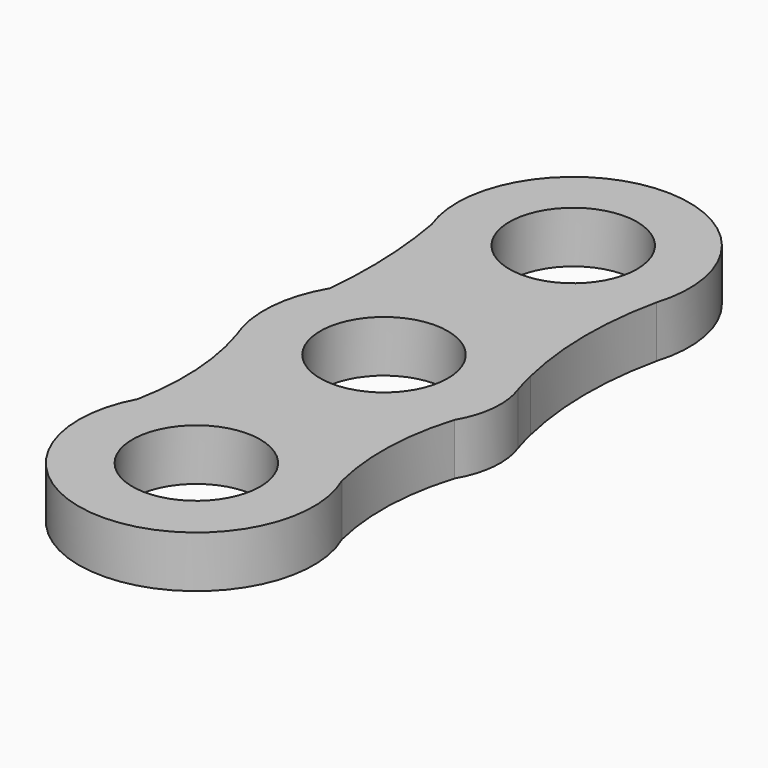
from build123d import *

# Parameters (mm, degrees)
F0_R     = 10.9982
F1_DEPTH = 8.89


with BuildPart() as f1:
    # F0 (on Top) → F1 (new body)
    with BuildSketch(Plane.XY):
        with BuildLine():
            ThreePointArc((19.288098, 7.425078), (17.651078, 21.09933), (19.097709, 34.795032))
            ThreePointArc((19.097709, 34.795032), (-0.573826, 60.707135), (-18.726343, 33.709126))
            ThreePointArc((-18.726343, 33.709126), (-17.437379, 22.177876), (-17.755109, 10.579159))
            ThreePointArc((-17.755109, 10.579159), (-20.610678, 1.53703), (-19.12786, -7.828632))
            ThreePointArc((-19.12786, -7.828632), (-16.996426, -19.210494), (-17.793023, -30.762777))
            ThreePointArc((-17.793023, -30.762777), (-0.824989, -60.620342), (18.519117, -32.244403))
            ThreePointArc((18.519117, -32.244403), (17.300372, -20.507816), (19.257121, -8.871496))
            ThreePointArc((19.257121, -8.871496), (21.201005, -2.880178), (20.391904, 3.366415))
            ThreePointArc((20.391904, 3.366415), (19.805296, 5.386308), (19.288098, 7.425078))
        make_face()
        with Locations((0, -40.401258)):
            Circle(F0_R, mode=Mode.SUBTRACT)
        Circle(F0_R, mode=Mode.SUBTRACT)
        with Locations((0, 40.719751)):
            Circle(F0_R, mode=Mode.SUBTRACT)
    extrude(amount=F1_DEPTH)


solid = f1.part
